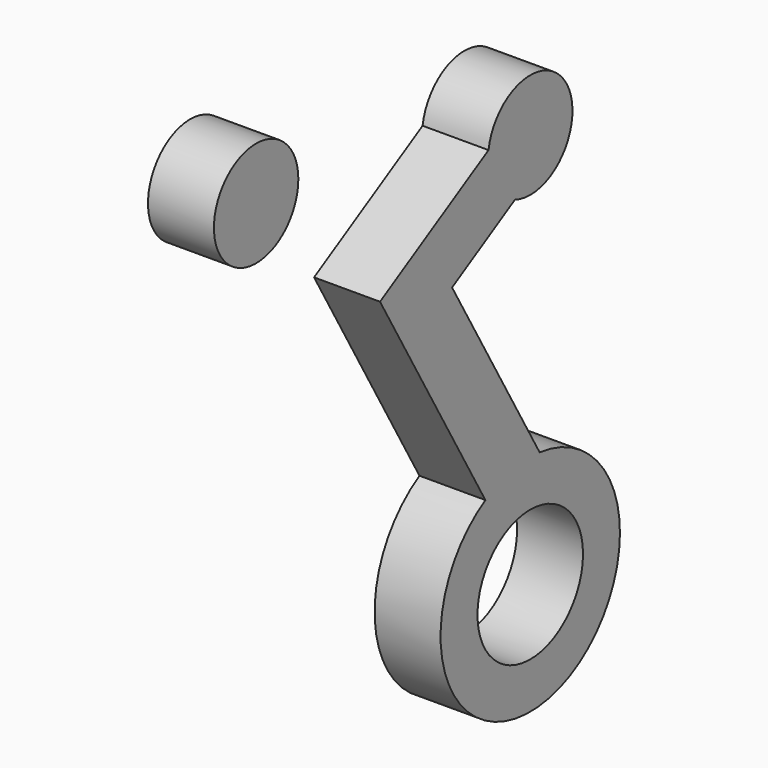
from build123d import *

# Parameters (mm, degrees)
F0_R     = 5
F0_R_2   = 4
F1_DEPTH = 2.5


with BuildPart() as f1:
    # F0 (on Right) → F1 (new body, symmetric)
    with BuildSketch(Plane.YZ):
        with BuildLine():
            Line((-14.240381, 24.665064), (-4.25, 7.361216))
            ThreePointArc((-4.25, 7.361216), (1.764936, -8.314746), (0.893195, 8.45294))
            Line((0.893195, 8.45294), (-7.410254, 22.834936))
            Line((-7.410254, 22.834936), (-1.454163, 26.273687))
            ThreePointArc((-1.454163, 26.273687), (3.464102, 32), (-3.954163, 30.603814))
            Line((-3.954163, 30.603814), (-14.240381, 24.665064))
        make_face()
        Circle(F0_R, mode=Mode.SUBTRACT)
        with Locations((-25.980762, 36)):
            Circle(F0_R_2)
    extrude(amount=F1_DEPTH, both=True)


solid = f1.part
